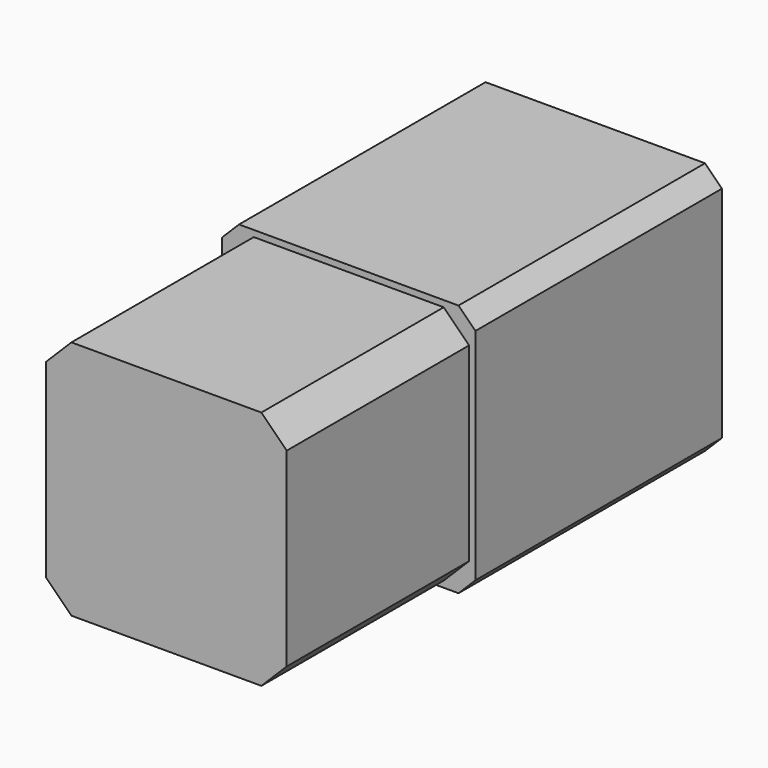
from build123d import *

# Parameters (mm, degrees)
SKETCH025_W     = 60
SKETCH025_H     = 60
PAD022_DEPTH    = 73
SKETCH026_W     = 57
SKETCH026_H     = 57
PAD023_DEPTH    = 54
CHAMFER_SIZE    = 6
CHAMFER001_SIZE = 4


with BuildPart() as part:
    # Sketch025 → Pad022 (new body)
    with BuildSketch(Plane.XZ):
        Rectangle(SKETCH025_W, SKETCH025_H)
    extrude(amount=PAD022_DEPTH)

    # Sketch026 (on Face6 of Pad022) → Pad023 (join)
    with BuildSketch(Plane.XZ.offset(73)):
        Rectangle(SKETCH026_W, SKETCH026_H)
    extrude(amount=PAD023_DEPTH)

    # Chamfer
    chamfer_edges = [part.edges().sort_by_distance(p)[0] for p in [
        (-28.5, -100, 28.5),
        (-28.5, -100, -28.5),
        (28.5, -100, -28.5),
        (28.5, -100, 28.5),
    ]]
    chamfer(chamfer_edges, length=CHAMFER_SIZE)

    # Chamfer001
    chamfer001_edges = [part.edges().sort_by_distance(p)[0] for p in [
        (30, -36.5, 30),
        (-30, -36.5, -30),
        (-30, -36.5, 30),
        (30, -36.5, -30),
    ]]
    chamfer(chamfer001_edges, length=CHAMFER001_SIZE)


solid = part.part
